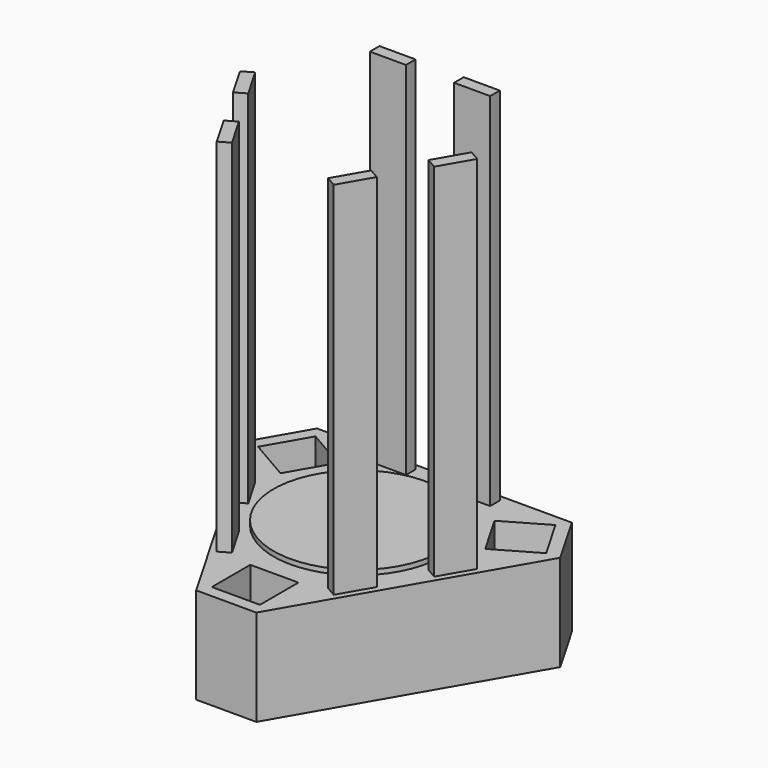
from build123d import *

# Parameters (mm, degrees)
F1_DEPTH = 40
F2_SIZE  = 25
F3_W     = 20
F3_H     = 20
F4_DEPTH = 30
F5_W     = 15
F5_H     = 5
F6_DEPTH = 150
F7_R     = 35
F8_DEPTH = 2


with BuildPart() as f1:
    # F0 (on Top) → F1 (new body)
    with BuildSketch(Plane.XY):
        Polygon((-77.942286, 45), (0, -90), (77.942286, 45), align=None)
    extrude(amount=F1_DEPTH)

    # F2
    f2_edges = [f1.edges().sort_by_distance(p)[0] for p in [
        (0, -90, 20),
        (77.942286, 45, 20),
        (-77.942286, 45, 20),
    ]]
    chamfer(f2_edges, length=F2_SIZE)

    # F3 (on face) → F4 (cut)
    with BuildSketch(Plane.XY.offset(40)):
        with Locations((0, -53.349365)):
            Rectangle(F3_W, F3_H)
        Polygon((-59.862159, 23.014428), (-42.541651, 13.014428), (-32.541651, 30.334936), (-49.862159, 40.334936), align=None)
        Polygon((49.862159, 40.334936), (32.541651, 30.334936), (42.541651, 13.014428), (59.862159, 23.014428), align=None)
    extrude(amount=-F4_DEPTH, mode=Mode.SUBTRACT)

    # F5 (on face) → F6 (join)
    with BuildSketch(Plane.XY.offset(40)):
        with Locations((-17.5, 40)):
            Rectangle(F5_W, F5_H)
        with Locations((17.5, 40)):
            Rectangle(F5_W, F5_H)
        Polygon((41.80608, -12.589746), (49.30608, 0.400635), (44.975953, 2.900635), (37.475953, -10.089746), align=None)
        Polygon((31.80608, -29.910254), (27.475953, -27.410254), (19.975953, -40.400635), (24.30608, -42.900635), align=None)
        Polygon((-31.80608, -29.910254), (-24.30608, -42.900635), (-19.975953, -40.400635), (-27.475953, -27.410254), align=None)
        Polygon((-41.80608, -12.589746), (-37.475953, -10.089746), (-44.975953, 2.900635), (-49.30608, 0.400635), align=None)
    extrude(amount=F6_DEPTH)

    # F7 (on face) → F8 (join)
    with BuildSketch(Plane.XY.offset(40)):
        Circle(F7_R)
    extrude(amount=F8_DEPTH)


solid = f1.part
